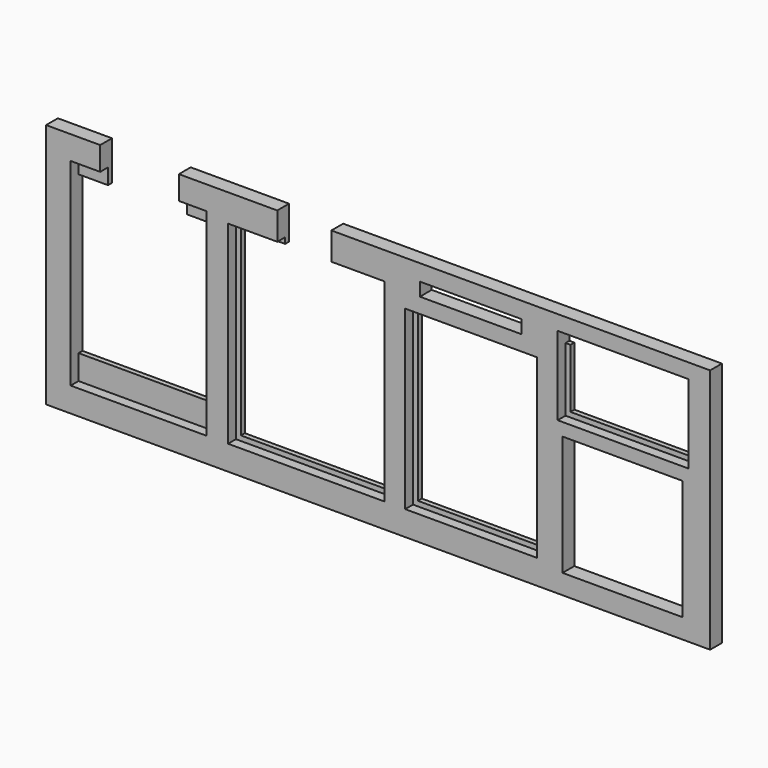
from build123d import *

# Parameters (mm, degrees)
BOX248_W     = 27.6
BOX248_H     = 2
BOX248_DEPTH = 40.2
BOX249_W     = 27.6
BOX249_H     = 1
BOX249_DEPTH = 32
BOX250_W     = 16
BOX250_H     = 3
BOX250_DEPTH = 8
BOX252_W     = 29.6
BOX252_H     = 1
BOX252_DEPTH = 37.2
BOX251_W     = 31.8
BOX251_H     = 2
BOX251_DEPTH = 39.4
BOX253_W     = 11
BOX253_H     = 3
BOX253_DEPTH = 8
BOX254_W     = 26.8
BOX254_H     = 2
BOX254_DEPTH = 35.9
BOX255_W     = 24.8
BOX255_H     = 1
BOX255_DEPTH = 34.9
BOX263_W     = 24.4
BOX263_H     = 3
BOX263_DEPTH = 24.4
BOX270_W     = 20.7
BOX270_H     = 8.9
BOX270_DEPTH = 2.7
BOX261_W     = 24.4
BOX261_H     = 1
BOX261_DEPTH = 13.8
BOX262_W     = 26.6
BOX262_H     = 1
BOX262_DEPTH = 3
BOX260_W     = 26.6
BOX260_H     = 2
BOX260_DEPTH = 16
BOX247_W     = 135
BOX247_H     = 3
BOX247_DEPTH = 50


with BuildPart() as cut_out_cam_large:
    # Box248 → Box248 (new body)
    with BuildSketch(Plane(origin=(5, 42, 5), x_dir=(1, 0, 0), z_dir=(0, 0, 1))):
        with Locations((13.8, 1)):
            Rectangle(BOX248_W, BOX248_H)
    extrude(amount=BOX248_DEPTH)


with BuildPart() as cut_out_cam_small:
    # Box249 → Box249 (new body)
    with BuildSketch(Plane(origin=(5, 44, 10), x_dir=(1, 0, 0), z_dir=(0, 0, 1))):
        with Locations((13.8, 0.5)):
            Rectangle(BOX249_W, BOX249_H)
    extrude(amount=BOX249_DEPTH)


with BuildPart() as cut_out_esp32cam:
    # Box250 → Box250 (new body)
    with BuildSketch(Plane(origin=(11, 42, 42), x_dir=(1, 0, 0), z_dir=(0, 0, 1))):
        with Locations((8, 1.5)):
            Rectangle(BOX250_W, BOX250_H)
    extrude(amount=BOX250_DEPTH)

    # Fusion: union cut-out cam large, cut-out cam small
    add(cut_out_cam_large.part)
    add(cut_out_cam_small.part)


with BuildPart() as cube225:
    # Box252 → Box252 (new body)
    with BuildSketch(Plane(origin=(38, 44, 6), x_dir=(1, 0, 0), z_dir=(0, 0, 1))):
        with Locations((14.8, 0.5)):
            Rectangle(BOX252_W, BOX252_H)
    extrude(amount=BOX252_DEPTH)


with BuildPart() as cube224:
    # Box251 → Box251 (new body)
    with BuildSketch(Plane(origin=(37, 42, 5), x_dir=(1, 0, 0), z_dir=(0, 0, 1))):
        with Locations((15.9, 1)):
            Rectangle(BOX251_W, BOX251_H)
    extrude(amount=BOX251_DEPTH)


with BuildPart() as cut_out_esp32:
    # Box253 → Box253 (new body)
    with BuildSketch(Plane(origin=(47, 42, 42), x_dir=(1, 0, 0), z_dir=(0, 0, 1))):
        with Locations((5.5, 1.5)):
            Rectangle(BOX253_W, BOX253_H)
    extrude(amount=BOX253_DEPTH)

    # Fusion066: union Cube225, Cube224
    add(cube225.part)
    add(cube224.part)


with BuildPart() as cube227:
    # Box254 → Box254 (new body)
    with BuildSketch(Plane(origin=(73, 42, 5), x_dir=(1, 0, 0), z_dir=(0, 0, 1))):
        with Locations((13.4, 1)):
            Rectangle(BOX254_W, BOX254_H)
    extrude(amount=BOX254_DEPTH)


with BuildPart() as obj1:
    # Box255 → Box255 (new body)
    with BuildSketch(Plane(origin=(74, 44, 6), x_dir=(1, 0, 0), z_dir=(0, 0, 1))):
        with Locations((12.4, 0.5)):
            Rectangle(BOX255_W, BOX255_H)
    extrude(amount=BOX255_DEPTH)

    # Fusion067: union Cube227
    add(cube227.part)


with BuildPart() as cut_out_gps_antenna:
    # Box263 → Box263 (new body)
    with BuildSketch(Plane(origin=(105, 42, 4), x_dir=(1, 0, 0), z_dir=(0, 0, 1))):
        with Locations((12.2, 1.5)):
            Rectangle(BOX263_W, BOX263_H)
    extrude(amount=BOX263_DEPTH)


with BuildPart() as cut_out_header:
    # Box270 → Box270 (new body)
    with BuildSketch(Plane(origin=(76, 36.5, 44), x_dir=(1, 0, 0), z_dir=(0, 0, 1))):
        with Locations((10.35, 4.45)):
            Rectangle(BOX270_W, BOX270_H)
    extrude(amount=BOX270_DEPTH)


with BuildPart() as cube234:
    # Box261 → Box261 (new body)
    with BuildSketch(Plane(origin=(103, 44, 30), x_dir=(1, 0, 0), z_dir=(0, 0, 1))):
        with Locations((12.2, 0.5)):
            Rectangle(BOX261_W, BOX261_H)
    extrude(amount=BOX261_DEPTH)


with BuildPart() as cube235:
    # Box262 → Box262 (new body)
    with BuildSketch(Plane(origin=(102, 44, 42), x_dir=(1, 0, 0), z_dir=(0, 0, 1))):
        with Locations((13.3, 0.5)):
            Rectangle(BOX262_W, BOX262_H)
    extrude(amount=BOX262_DEPTH)


with BuildPart() as cut_outs:
    # Box260 → Box260 (new body)
    with BuildSketch(Plane(origin=(102, 42, 29), x_dir=(1, 0, 0), z_dir=(0, 0, 1))):
        with Locations((13.3, 1)):
            Rectangle(BOX260_W, BOX260_H)
    extrude(amount=BOX260_DEPTH)

    # Fusion070: union Cube234, Cube235
    add(cube234.part)
    add(cube235.part)


with BuildPart() as cut_outs_1:
    # Fusion070 placement: moved
    add(cut_outs.part.moved(Location((2, 0, 2))))

    # Fusion071: union Cut-out ESP32CAM, Cut-out ESP32, obj1, Cut-out GPS antenna, Cut-out header
    add(cut_out_esp32cam.part)
    add(cut_out_esp32.part)
    add(obj1.part)
    add(cut_out_gps_antenna.part)
    add(cut_out_header.part)


with BuildPart() as plate:
    # Box247 → Box247 (new body)
    with BuildSketch(Plane(origin=(0, 42, 0), x_dir=(1, 0, 0), z_dir=(0, 0, 1))):
        with Locations((67.5, 1.5)):
            Rectangle(BOX247_W, BOX247_H)
    extrude(amount=BOX247_DEPTH)

    # Cut197: cut  Cut-outs
    add(cut_outs_1.part, mode=Mode.SUBTRACT)


solid = plate.part
